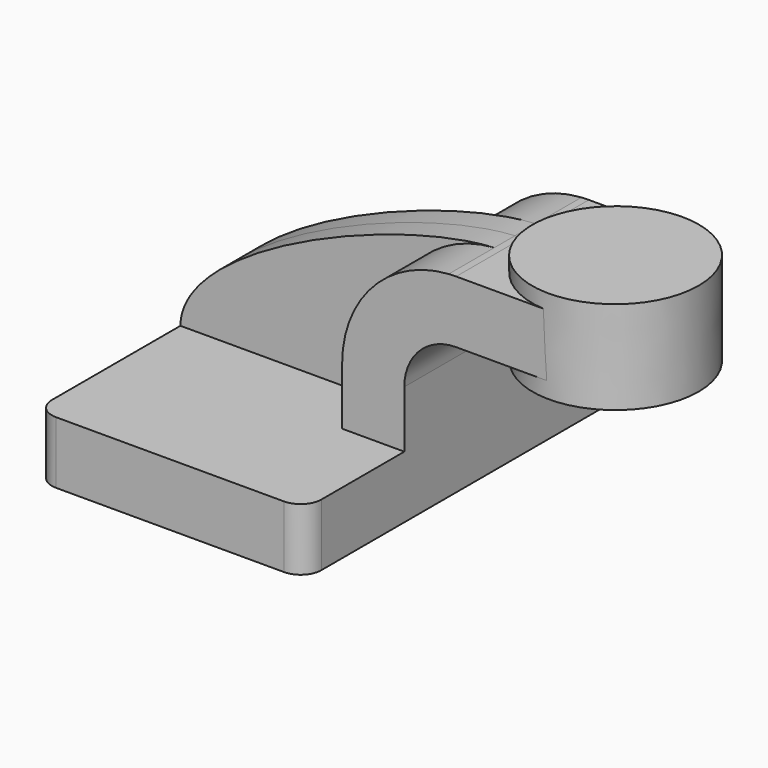
from build123d import *

# Parameters (mm, degrees)
F1_DEPTH = 63.5
F2_DEPTH = 7.9375
F3_DEPTH = 25.4
F0_W     = 25.3238
F0_H     = 19.05
F4_DEPTH = 25.4
F6_R     = 6.35


with BuildPart() as f1:
    # F0 (on Front) → F1 (new body, symmetric)
    with BuildSketch(Plane.XZ):
        Polygon((-41.275, 9.525), (-41.275, -9.525), (41.275, -9.525), (41.275, 9.525), (22.225, 9.525), align=None)
    extrude(amount=F1_DEPTH, both=True)

    # F0 (on Front) → F2 (join, symmetric)
    with BuildSketch(Plane.XZ):
        with BuildLine():
            add(Edge.make_bspline(
                [(-41.275, 9.525), (-41.0096709394, 33.3485221213), (24.4764054446, 60.2335256768), (54.8747860488, 61.8510109874)],
                knots=[0, 0, 0, 0, 108.7072951775, 108.7072951775, 108.7072951775, 108.7072951775], degree=3))
            Line((-41.275, 9.525), (22.225, 9.525))
            Line((22.225, 9.525), (22.225, 27.0002))
            ThreePointArc((22.225, 27.0002), (31.6625769031, 50.8779488235), (54.8747860488, 61.8510109874))
        make_face()
    extrude(amount=F2_DEPTH, both=True)

    # F0 (on Front) → F3 (join, symmetric)
    with BuildSketch(Plane.XZ):
        with BuildLine():
            Line((22.225, 9.525), (41.275, 9.525))
            Line((41.275, 9.525), (41.275, 27.0002))
            ThreePointArc((41.275, 27.0002), (45.9246798487, 38.2255201513), (57.15, 42.8752))
            Line((57.15, 42.8752), (60.325, 42.8752))
            Line((60.325, 42.8752), (60.325, 61.9252))
            Line((60.325, 61.9252), (57.15, 61.9252))
            add(Edge.make_bspline(
                [(54.8747860488, 61.8510109874), (55.6569929467, 61.8926318942), (56.4159672755, 61.917522453), (57.15, 61.9252)],
                knots=[108.7072951775, 108.7072951775, 108.7072951775, 108.7072951775, 111.5045361635, 111.5045361635, 111.5045361635, 111.5045361635], degree=3))
            ThreePointArc((54.8747860488, 61.8510109874), (31.6625769031, 50.8779488235), (22.225, 27.0002))
            Line((22.225, 27.0002), (22.225, 9.525))
        make_face()
    extrude(amount=F3_DEPTH, both=True)

    # F0 (on Front) → F4 (join, symmetric)
    with BuildSketch(Plane.XZ):
        with Locations((72.9869, 52.4002)):
            Rectangle(F0_W, F0_H)
    extrude(amount=F4_DEPTH, both=True)

    # F0 (on Front) → F5 (revolve)
    with BuildSketch(Plane.XZ):
        Polygon((111.125, 66.675), (85.6488, 66.675), (85.725, 38.1), (111.125, 38.1), align=None)
    revolve(axis=Axis((85.6869, 0, 52.3875), (-0.0026666572, 0, 0.9999964445)))

    # F6
    f6_edges = [f1.edges().sort_by_distance(p)[0] for p in [
        (41.275, -63.5, 0),
        (41.275, 63.5, 0),
        (-41.275, 63.5, 0),
        (-41.275, -63.5, 0),
    ]]
    fillet(f6_edges, radius=F6_R)


solid = f1.part
